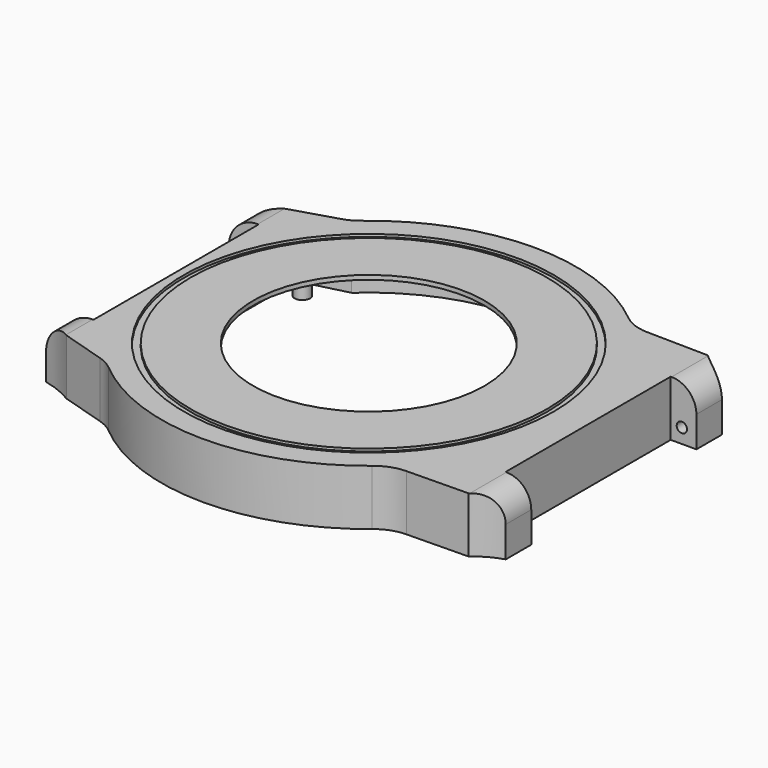
from build123d import *

# Parameters (mm, degrees)
PAD_DEPTH       = 6.5
POCKET_DEPTH    = 6
SKETCH002_R     = 13.5
POCKET001_DEPTH = 1
SKETCH003_W     = 5.4
SKETCH003_H     = 6.5
PAD001_DEPTH    = 3
POCKET002_DEPTH = 10
SKETCH008_R     = 0.6
POCKET003_DEPTH = 2
SKETCH009_R     = 0.6
POCKET004_DEPTH = 2
FILLET_R        = 2.9
FILLET001_R     = 2.9
FILLET002_R     = 5
FILLET003_R     = 5
FILLET004_R     = 5
FILLET005_R     = 5
SKETCH010_W     = 3.95
SKETCH010_H     = 6.5
PAD002_DEPTH    = 3.5
POCKET005_DEPTH = 10
SKETCH012_R     = 0.6
POCKET006_DEPTH = 2
SKETCH013_R     = 0.6
POCKET007_DEPTH = 2
FILLET006_R     = 3.4
FILLET007_R     = 3.4
SKETCH014_R     = 21.6
SKETCH014_R_2   = 20.8
POCKET008_DEPTH = 0.3
SKETCH015_R     = 0.9
PAD003_DEPTH    = 6


with BuildPart() as part:
    # Sketch → Pad (new body)
    with BuildSketch(Plane.XY):
        with BuildLine():
            Line((-22.501992, 16), (-22.501992, -16))
            Line((-22.501992, -16), (-16.285883, -17.9))
            ThreePointArc((-16.285883, -17.9), (0.22069, -24.198994), (16.609636, -17.6))
            Line((16.609636, -17.6), (25.608386, -17.45))
            Line((25.608386, 17.45), (25.608386, -17.45))
            Line((16.609636, 17.6), (25.608386, 17.45))
            ThreePointArc((16.609636, 17.6), (0.22069, 24.198994), (-16.285883, 17.9))
            Line((-22.501992, 16), (-16.285883, 17.9))
        make_face()
    extrude(amount=PAD_DEPTH)

    # Sketch001 → Pocket (cut)
    with BuildSketch(Plane.XY):
        with BuildLine():
            Line((-15.242949, 16.55), (-20.574694, 15.2))
            Line((-20.574694, 15.2), (-20.574694, -15.2))
            Line((-20.574694, -15.2), (-15.242949, -16.55))
            ThreePointArc((-15.242949, -16.55), (0, -22.5), (15.242949, -16.55))
            Line((15.242949, -16.55), (23.527875, -16.05))
            Line((23.527875, 16.05), (23.527875, -16.05))
            Line((15.242949, 16.55), (23.527875, 16.05))
            ThreePointArc((15.242949, 16.55), (0, 22.5), (-15.242949, 16.55))
        make_face()
    extrude(amount=POCKET_DEPTH, mode=Mode.SUBTRACT)

    # Sketch002 (on Face19 of Pocket) → Pocket001 (cut)
    with BuildSketch(Plane(origin=(0, 0, 6), x_dir=(1, 0, 0), z_dir=(0, 0, -1))):
        Circle(SKETCH002_R)
    extrude(amount=-POCKET001_DEPTH, mode=Mode.SUBTRACT)

    # Sketch003 (on Face6 of Pocket001) → Pad001 (join)
    with BuildSketch(Plane.YZ.offset(25.608386)):
        with Locations((-14.75, 3.25)):
            Rectangle(SKETCH003_W, SKETCH003_H)
        with Locations((14.75, 3.25)):
            Rectangle(SKETCH003_W, SKETCH003_H)
    extrude(amount=PAD001_DEPTH)

    # Sketch006 → Pocket002 (cut)
    with BuildSketch(Plane.XY.offset(6.5)):
        with BuildLine():
            ThreePointArc((25.608386, 17.45), (27.01354, 16.442644), (28.608386, 15.775042))
            Line((28.608386, 17.45), (28.608386, 15.775042))
            Line((28.608386, 17.45), (25.608386, 17.45))
        make_face()
        with BuildLine():
            ThreePointArc((28.608386, -15.775042), (27.01354, -16.442644), (25.608386, -17.45))
            Line((28.608386, -17.45), (25.608386, -17.45))
            Line((28.608386, -15.775042), (28.608386, -17.45))
        make_face()
    extrude(amount=-POCKET002_DEPTH, mode=Mode.SUBTRACT)

    # Sketch008 (on Face27 of Pocket002) → Pocket003 (cut)
    with BuildSketch(Plane(origin=(0, -12.05, 0), x_dir=(-1, 0, 0), z_dir=(0, 1, 0))):
        with Locations((-26.908386, 1.7)):
            Circle(SKETCH008_R)
    extrude(amount=-POCKET003_DEPTH, mode=Mode.SUBTRACT)

    # Sketch009 (on Face26 of Pocket003) → Pocket004 (cut)
    with BuildSketch(Plane.XZ.offset(-12.05)):
        with Locations((26.908386, 1.7)):
            Circle(SKETCH009_R)
    extrude(amount=-POCKET004_DEPTH, mode=Mode.SUBTRACT)

    # Fillet
    fillet_edges = [part.edges().sort_by_distance(p)[0] for p in [
        (28.608386, -13.912521, 6.5),
    ]]
    fillet(fillet_edges, radius=FILLET_R)

    # Fillet001
    fillet001_edges = [part.edges().sort_by_distance(p)[0] for p in [
        (28.608386, 13.912521, 6.5),
    ]]
    fillet(fillet001_edges, radius=FILLET001_R)

    # Fillet002
    fillet002_edges = [part.edges().sort_by_distance(p)[0] for p in [
        (16.609636, -17.6, 3.25),
    ]]
    fillet(fillet002_edges, radius=FILLET002_R)

    # Fillet003
    fillet003_edges = [part.edges().sort_by_distance(p)[0] for p in [
        (16.609636, 17.6, 3.25),
    ]]
    fillet(fillet003_edges, radius=FILLET003_R)

    # Fillet004
    fillet004_edges = [part.edges().sort_by_distance(p)[0] for p in [
        (-16.285883, -17.9, 3.25),
    ]]
    fillet(fillet004_edges, radius=FILLET004_R)

    # Fillet005
    fillet005_edges = [part.edges().sort_by_distance(p)[0] for p in [
        (-16.285883, 17.9, 3.25),
    ]]
    fillet(fillet005_edges, radius=FILLET005_R)

    # Sketch010 (on Face4 of Fillet005) → Pad002 (join)
    with BuildSketch(Plane(origin=(-22.501992, 0, 0), x_dir=(0, -1, 0), z_dir=(-1, 0, 0))):
        with Locations((-14.025, 3.25)):
            Rectangle(SKETCH010_W, SKETCH010_H)
        with Locations((14.025, 3.25)):
            Rectangle(SKETCH010_W, SKETCH010_H)
    extrude(amount=PAD002_DEPTH)

    # Sketch011 (on Face6 of Pad002) → Pocket005 (cut)
    with BuildSketch(Plane.XY.offset(6.5)):
        with BuildLine():
            ThreePointArc((-26.001992, 14.6), (-24.192608, 15.15154), (-22.501992, 16))
            Line((-22.501992, 16), (-26.001992, 16))
            Line((-26.001992, 16), (-26.001992, 14.6))
        make_face()
        with BuildLine():
            ThreePointArc((-22.501992, -16), (-24.192608, -15.15154), (-26.001992, -14.6))
            Line((-26.001992, -14.6), (-26.001992, -16))
            Line((-26.001992, -16), (-22.501992, -16))
        make_face()
    extrude(amount=-POCKET005_DEPTH, mode=Mode.SUBTRACT)

    # Sketch012 (on Face23 of Pocket005) → Pocket006 (cut)
    with BuildSketch(Plane(origin=(0, -12.05, 0), x_dir=(-1, 0, 0), z_dir=(0, 1, 0))):
        with Locations((24.301992, 1.7)):
            Circle(SKETCH012_R)
    extrude(amount=-POCKET006_DEPTH, mode=Mode.SUBTRACT)

    # Sketch013 (on Face21 of Pocket006) → Pocket007 (cut)
    with BuildSketch(Plane.XZ.offset(-12.05)):
        with Locations((-24.301992, 1.7)):
            Circle(SKETCH013_R)
    extrude(amount=-POCKET007_DEPTH, mode=Mode.SUBTRACT)

    # Fillet006
    fillet006_edges = [part.edges().sort_by_distance(p)[0] for p in [
        (-26.001992, 13.325, 6.5),
    ]]
    fillet(fillet006_edges, radius=FILLET006_R)

    # Fillet007
    fillet007_edges = [part.edges().sort_by_distance(p)[0] for p in [
        (-26.001992, -13.325, 6.5),
    ]]
    fillet(fillet007_edges, radius=FILLET007_R)

    # Sketch014 (on Face4 of Fillet007) → Pocket008 (cut)
    with BuildSketch(Plane.XY.offset(6.5)):
        Circle(SKETCH014_R)
        Circle(SKETCH014_R_2, mode=Mode.SUBTRACT)
    extrude(amount=-POCKET008_DEPTH, mode=Mode.SUBTRACT)

    # Sketch015 (on Face55 of Pocket008) → Pad003 (join)
    with BuildSketch(Plane(origin=(0, 0, 6), x_dir=(1, 0, 0), z_dir=(0, 0, -1))):
        with Locations((-18.42, 13.32)):
            Circle(SKETCH015_R)
        with Locations((-18.42, -13.32)):
            Circle(SKETCH015_R)
        with Locations((7.27, 18.56)):
            Circle(SKETCH015_R)
        with Locations((5.37, -19.79)):
            Circle(SKETCH015_R)
    extrude(amount=PAD003_DEPTH)


solid = part.part
